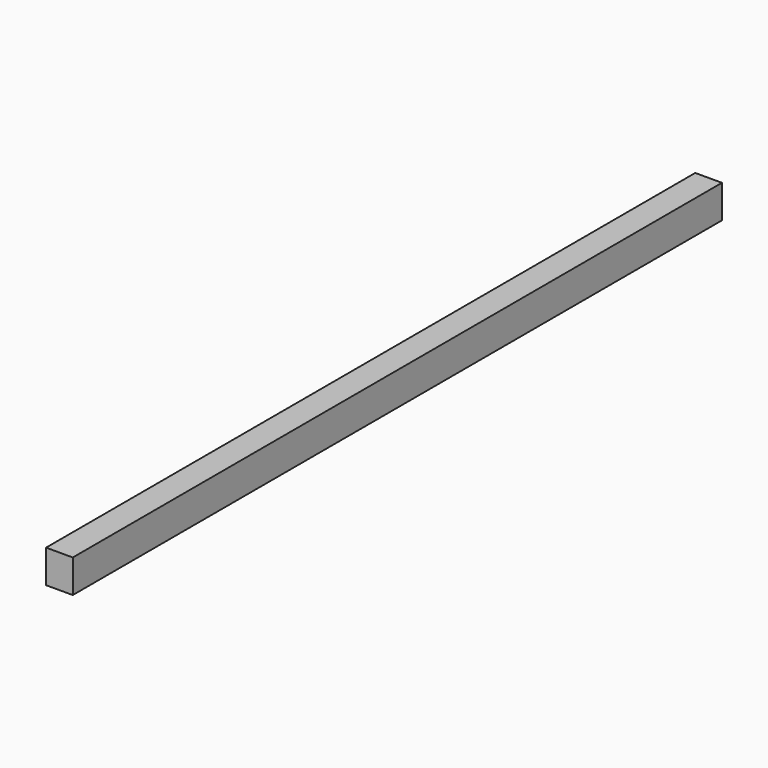
from build123d import *

# Parameters (mm, degrees)
SKETCH_W  = 2.5
SKETCH_H  = 76
PAD_DEPTH = 3.1


with BuildPart() as part:
    # Sketch → Pad (new body)
    with BuildSketch(Plane.XY):
        Rectangle(SKETCH_W, SKETCH_H)
    extrude(amount=PAD_DEPTH)


solid = part.part
